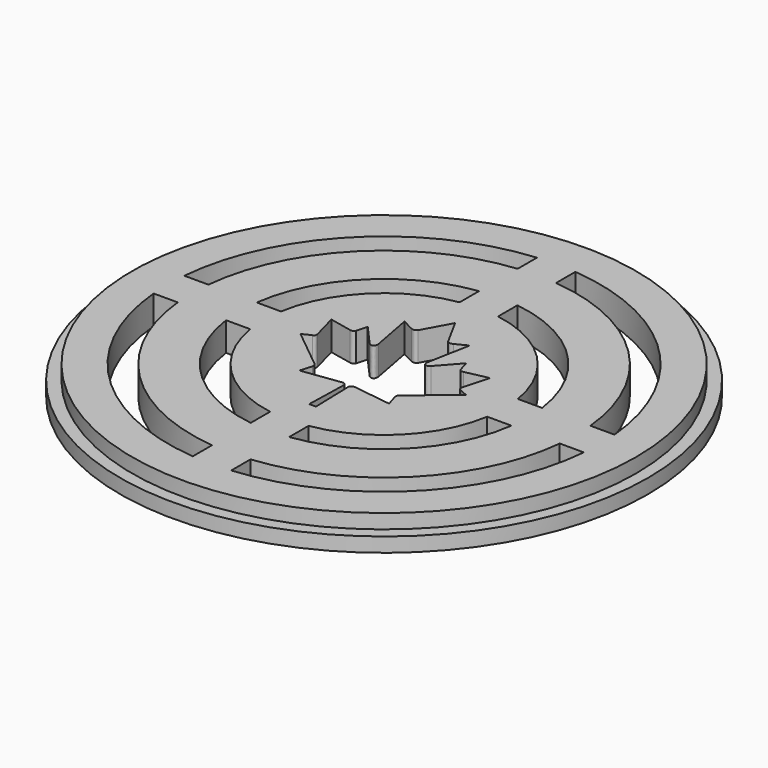
from build123d import *

# Parameters (mm, degrees)
F0_R     = 55
F0_R_2   = 52.5
F1_DEPTH = 6
F2_DEPTH = 3


with BuildPart() as f1:
    # F0 (on Top) → F1 (new body)
    with BuildSketch(Plane.XY):
        Circle(F0_R)
        Circle(F0_R_2, mode=Mode.SUBTRACT)
        Circle(F0_R_2)
        with BuildLine():
            Line((-4, -39.7994974843), (-4, -44.821869662))
            ThreePointArc((-4, -44.821869662), (-31.8198051534, -31.8198051534), (-44.821869662, -4))
            Line((-44.821869662, -4), (-39.7994974843, -4))
            ThreePointArc((-39.7994974843, -4), (-28.2842712475, -28.2842712475), (-4, -39.7994974843))
        make_face(mode=Mode.SUBTRACT)
        with BuildLine():
            ThreePointArc((-4, -29.7321374946), (-21.2132034356, -21.2132034356), (-29.7321374946, -4))
            Line((-29.7321374946, -4), (-24.6779253585, -4))
            ThreePointArc((-24.6779253585, -4), (-17.6776695297, -17.6776695297), (-4, -24.6779253585))
            Line((-4, -24.6779253585), (-4, -29.7321374946))
        make_face(mode=Mode.SUBTRACT)
        with BuildLine():
            Line((39.7994974843, -4), (44.821869662, -4))
            ThreePointArc((44.821869662, -4), (31.8198051534, -31.8198051534), (4, -44.821869662))
            Line((4, -44.821869662), (4, -39.7994974843))
            ThreePointArc((4, -39.7994974843), (28.2842712475, -28.2842712475), (39.7994974843, -4))
        make_face(mode=Mode.SUBTRACT)
        with BuildLine():
            ThreePointArc((29.7321374946, -4), (21.2132034356, -21.2132034356), (4, -29.7321374946))
            Line((4, -29.7321374946), (4, -24.6779253585))
            ThreePointArc((4, -24.6779253585), (17.6776695297, -17.6776695297), (24.6779253585, -4))
            Line((24.6779253585, -4), (29.7321374946, -4))
        make_face(mode=Mode.SUBTRACT)
        with BuildLine():
            Line((0.7063379744, -18.6231244003), (0, -18.6231244003))
            Line((0, -18.6231244003), (-0.7063379744, -18.6231244003))
            Line((-0.7063379744, -18.6231244003), (-0.4744689504, -9.9455872551))
            add(Edge.make_bspline(
                [(-0.4744689504, -9.9455872551), (-0.4627407761, -9.8347328603), (-0.6571381819, -9.3434378505), (-1.0671400232, -9.2586101964)],
                knots=[0, 0, 0, 0, 0.9073017578, 0.9073017578, 0.9073017578, 0.9073017578], degree=3))
            Line((-1.0671400232, -9.2586101964), (-9.3420948833, -10.3767029941))
            Line((-9.3420948833, -10.3767029941), (-8.5947467014, -7.927252911))
            add(Edge.make_bspline(
                [(-8.5947467014, -7.927252911), (-8.5831601173, -7.8032519668), (-8.5160043091, -7.4144573882), (-8.8199712336, -7.0574730635)],
                knots=[0, 0, 0, 0, 0.8984670685, 0.8984670685, 0.8984670685, 0.8984670685], degree=3))
            Line((-8.8199712336, -7.0574730635), (-17.2568876296, -0.1983663387))
            Line((-17.2568876296, -0.1983663387), (-15.4789015651, 0.6534472341))
            add(Edge.make_bspline(
                [(-15.4789015651, 0.6534472341), (-15.2981067076, 0.7015652373), (-15.0379305841, 0.9150229577), (-14.9981947616, 1.1539326515), (-15.0481807068, 1.4938330278)],
                knots=[0, 0, 0, 0, 0.4670435173, 1, 1, 1, 1], degree=3))
            Line((-15.0481807068, 1.4938330278), (-16.5220610797, 6.9137872197))
            Line((-16.5220610797, 6.9137872197), (-11.80508174, 5.9227617458))
            add(Edge.make_bspline(
                [(-11.80508174, 5.9227617458), (-11.5451579913, 5.8577810414), (-11.1852632836, 5.842785351), (-10.9203411266, 6.2926532701)],
                knots=[0, 0, 0, 0, 0.9589503078, 0.9589503078, 0.9589503078, 0.9589503078], degree=3))
            Line((-10.9203411266, 6.2926532701), (-10.265532881, 8.576983586))
            Line((-10.265532881, 8.576983586), (-6.390159484, 4.2284368537))
            add(Edge.make_bspline(
                [(-6.390159484, 4.2284368537), (-6.0810563155, 3.8955565542), (-5.2899533571, 3.7433779044), (-5.0645819865, 4.4543202966), (-5.1299692132, 4.9595851451)],
                knots=[0, 0, 0, 0, 0.4924700015, 1, 1, 1, 1], degree=3))
            Line((-5.1299692132, 4.9595851451), (-6.7966869101, 13.8145368546))
            Line((-6.7966869101, 13.8145368546), (-4.387574736, 12.5758592039))
            add(Edge.make_bspline(
                [(-4.387574736, 12.5758592039), (-3.8159328979, 12.3909162357), (-3.60577018, 12.298444286), (-3.1265998259, 12.794428505)],
                knots=[0, 0, 0, 0, 1.2797774272, 1.2797774272, 1.2797774272, 1.2797774272], degree=3))
            Line((-3.1265998259, 12.794428505), (0, 18.499981612))
            Line((0, 18.499981612), (3.1265998259, 12.794428505))
            add(Edge.make_bspline(
                [(4.387574736, 12.5758592039), (3.8159328979, 12.3909162357), (3.60577018, 12.298444286), (3.1265998259, 12.794428505)],
                knots=[0, 0, 0, 0, 1.2797774272, 1.2797774272, 1.2797774272, 1.2797774272], degree=3))
            Line((4.387574736, 12.5758592039), (6.7966869101, 13.8145368546))
            Line((6.7966869101, 13.8145368546), (5.1299692132, 4.9595851451))
            add(Edge.make_bspline(
                [(6.390159484, 4.2284368537), (6.0810563155, 3.8955565542), (5.2899533571, 3.7433779044), (5.0645819865, 4.4543202966), (5.1299692132, 4.9595851451)],
                knots=[0, 0, 0, 0, 0.4924700015, 1, 1, 1, 1], degree=3))
            Line((6.390159484, 4.2284368537), (10.265532881, 8.576983586))
            Line((10.265532881, 8.576983586), (10.9203411266, 6.2926532701))
            add(Edge.make_bspline(
                [(11.80508174, 5.9227617458), (11.5451579913, 5.8577810414), (11.1852632836, 5.842785351), (10.9203411266, 6.2926532701)],
                knots=[0, 0, 0, 0, 0.9589503078, 0.9589503078, 0.9589503078, 0.9589503078], degree=3))
            Line((11.80508174, 5.9227617458), (16.5220610797, 6.9137872197))
            Line((16.5220610797, 6.9137872197), (15.0481807068, 1.4938330278))
            add(Edge.make_bspline(
                [(15.4789015651, 0.6534472341), (15.2981067076, 0.7015652373), (15.0379305841, 0.9150229577), (14.9981947616, 1.1539326515), (15.0481807068, 1.4938330278)],
                knots=[0, 0, 0, 0, 0.4670435173, 1, 1, 1, 1], degree=3))
            Line((15.4789015651, 0.6534472341), (17.2568876296, -0.1983663387))
            Line((17.2568876296, -0.1983663387), (8.8199712336, -7.0574730635))
            add(Edge.make_bspline(
                [(8.5947467014, -7.927252911), (8.5831601173, -7.8032519668), (8.5160043091, -7.4144573882), (8.8199712336, -7.0574730635)],
                knots=[0, 0, 0, 0, 0.8984670685, 0.8984670685, 0.8984670685, 0.8984670685], degree=3))
            Line((8.5947467014, -7.927252911), (9.3420948833, -10.3767029941))
            Line((9.3420948833, -10.3767029941), (1.0671400232, -9.2586101964))
            add(Edge.make_bspline(
                [(0.4744689504, -9.9455872551), (0.4627407761, -9.8347328603), (0.6571381819, -9.3434378505), (1.0671400232, -9.2586101964)],
                knots=[0, 0, 0, 0, 0.9073017578, 0.9073017578, 0.9073017578, 0.9073017578], degree=3))
            Line((0.4744689504, -9.9455872551), (0.7063379744, -18.6231244003))
        make_face(mode=Mode.SUBTRACT)
        with BuildLine():
            Line((-4, 29.7321374946), (-4, 24.6779253585))
            ThreePointArc((-4, 24.6779253585), (-17.6776695297, 17.6776695297), (-24.6779253585, 4))
            Line((-24.6779253585, 4), (-29.7321374946, 4))
            ThreePointArc((-29.7321374946, 4), (-21.2132034356, 21.2132034356), (-4, 29.7321374946))
        make_face(mode=Mode.SUBTRACT)
        with BuildLine():
            Line((-4, 44.821869662), (-4, 39.7994974843))
            ThreePointArc((-4, 39.7994974843), (-28.2842712475, 28.2842712475), (-39.7994974843, 4))
            Line((-39.7994974843, 4), (-44.821869662, 4))
            ThreePointArc((-44.821869662, 4), (-31.8198051534, 31.8198051534), (-4, 44.821869662))
        make_face(mode=Mode.SUBTRACT)
        with BuildLine():
            ThreePointArc((4, 29.7321374946), (21.2132034356, 21.2132034356), (29.7321374946, 4))
            Line((29.7321374946, 4), (24.6779253585, 4))
            ThreePointArc((24.6779253585, 4), (17.6776695297, 17.6776695297), (4, 24.6779253585))
            Line((4, 24.6779253585), (4, 29.7321374946))
        make_face(mode=Mode.SUBTRACT)
        with BuildLine():
            Line((4, 39.7994974843), (4, 44.821869662))
            ThreePointArc((4, 44.821869662), (31.8198051534, 31.8198051534), (44.821869662, 4))
            Line((44.821869662, 4), (39.7994974843, 4))
            ThreePointArc((39.7994974843, 4), (28.2842712475, 28.2842712475), (4, 39.7994974843))
        make_face(mode=Mode.SUBTRACT)
    extrude(amount=-F1_DEPTH)

    # F0 (on Top) → F2 (cut)
    with BuildSketch(Plane.XY):
        Circle(F0_R)
        Circle(F0_R_2, mode=Mode.SUBTRACT)
    extrude(amount=-F2_DEPTH, mode=Mode.SUBTRACT)


solid = f1.part
